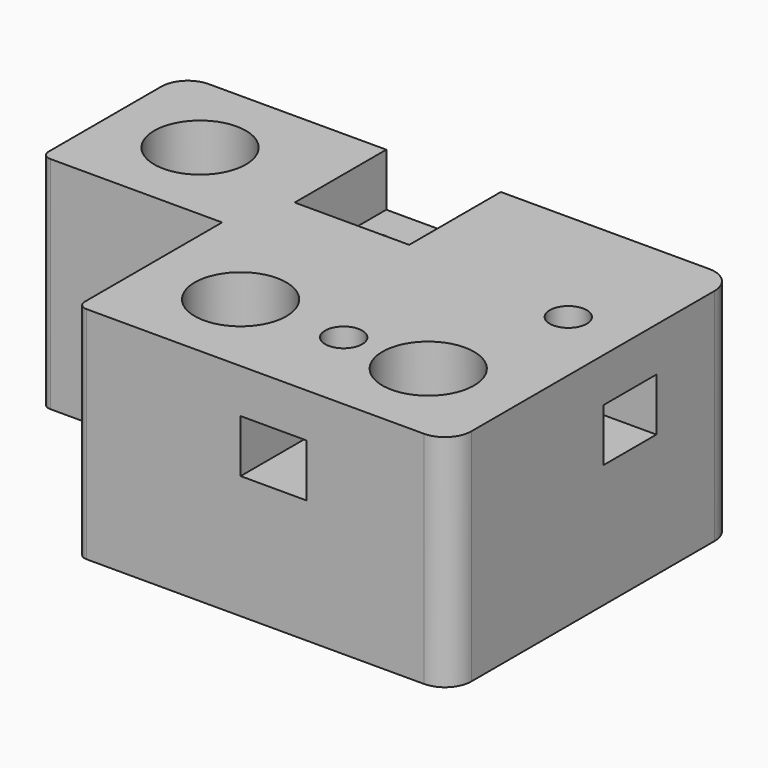
from build123d import *

# Parameters (mm, degrees)
EXTRUDE012_DEPTH                  = 20
BOX020_W                          = 15
BOX020_H                          = 7.5
BOX020_DEPTH                      = 6
CYLINDER010_R                     = 2.1
CYLINDER010_DEPTH                 = 5
CYLINDER009_R                     = 1.05
CYLINDER009_DEPTH                 = 7
BOX018_W                          = 13
BOX018_H                          = 13
BOX018_DEPTH                      = 6
CYLINDER008_R                     = 2.65
CYLINDER008_DEPTH                 = 5
CYLINDER007_R                     = 5.2
CYLINDER007_DEPTH                 = 20
BOX021_W                          = 20.5
BOX021_H                          = 20.5
BOX021_DEPTH                      = 25
BOX022_W                          = 7.5
BOX022_H                          = 13
BOX022_DEPTH                      = 6
BOX019_W                          = 40.5
BOX019_H                          = 62.8
BOX019_DEPTH                      = 25
FILLET004_1_R                     = 3
FILLET004_2_R                     = 1
PART_MIRRORING001_PLACEMENT_ANGLE = 90


with BuildPart() as obj1:
    # Sketch012 → Extrude012 (new body)
    with BuildSketch(Plane.YZ):
        with BuildLine():
            ThreePointArc((-3.606243, 3.606246), (0, -5.1), (3.606243, 3.606246))
            Line((2.112489, 5.1), (3.606243, 3.606246))
            Line((-2.112489, 5.1), (2.112489, 5.1))
            Line((-3.606243, 3.606246), (-2.112489, 5.1))
        make_face()
    extrude(amount=EXTRUDE012_DEPTH)


with BuildPart() as obj1_1:
    # Extrude012 placement: moved
    add(obj1.part.moved(Location((20.5, 41.65, 15))))


with BuildPart() as hueco_taladro005:
    # Box020 → Box020 (new body)
    with BuildSketch(Plane(origin=(0, 39, 14), x_dir=(1, 0, 0), z_dir=(0, 0, 1))):
        with Locations((7.5, 3.75)):
            Rectangle(BOX020_W, BOX020_H)
    extrude(amount=BOX020_DEPTH)


with BuildPart() as taladro013:
    # Cylinder010 → Cylinder010 (new body)
    with BuildSketch(Plane(origin=(10, 42.7, 20), x_dir=(1, 0, 0), z_dir=(0, 0, 1))):
        Circle(CYLINDER010_R)
    extrude(amount=CYLINDER010_DEPTH)


with BuildPart() as clone019:
    # Clone019 base: copy of taladro013
    add(taladro013.part)


with BuildPart() as clone019_1:
    # Clone019 placement: moved
    add(clone019.part.moved(Location((15.5, 13.1, 0))))


with BuildPart() as taladro_endstop001:
    # Cylinder009 → Cylinder009 (new body)
    with BuildSketch(Plane(origin=(35.5, 26.14, 12), x_dir=(1, 0, 0), z_dir=(0, 0, 1))):
        Circle(CYLINDER009_R)
    extrude(amount=CYLINDER009_DEPTH)


with BuildPart() as clone022:
    # Clone022 base: copy of taladro_endstop001
    add(taladro_endstop001.part)


with BuildPart() as clone022_1:
    # Clone022 placement: moved
    add(clone022.part.moved(Location((0, 7, 0))))


with BuildPart() as hueco_endstop001:
    # Box018 → Box018 (new body)
    with BuildSketch(Plane(origin=(27.5, 23.14, 19), x_dir=(1, 0, 0), z_dir=(0, 0, 1))):
        with Locations((6.5, 6.5)):
            Rectangle(BOX018_W, BOX018_H)
    extrude(amount=BOX018_DEPTH)


with BuildPart() as taladro012:
    # Cylinder008 → Cylinder008 (new body)
    with BuildSketch(Plane(origin=(30.5, 10, 0), x_dir=(1, 0, 0), z_dir=(0, 0, 1))):
        Circle(CYLINDER008_R)
    extrude(amount=CYLINDER008_DEPTH)


with BuildPart() as clone021:
    # Clone021 base: copy of taladro012
    add(taladro012.part)


with BuildPart() as clone021_1:
    # Clone021 placement: moved
    add(clone021.part.moved(Location((-20.5, 21, 0))))


with BuildPart() as clone017:
    # Clone017 base: copy of Clone021
    add(clone021_1.part)


with BuildPart() as clone017_1:
    # Clone017 placement: moved
    add(clone017.part.moved(Location((0, 21.3, 0))))


with BuildPart() as taladro011:
    # Cylinder007 → Cylinder007 (new body)
    with BuildSketch(Plane(origin=(30.5, 10, 5), x_dir=(1, 0, 0), z_dir=(0, 0, 1))):
        Circle(CYLINDER007_R)
    extrude(amount=CYLINDER007_DEPTH)


with BuildPart() as clone018:
    # Clone018 base: copy of taladro011
    add(taladro011.part)


with BuildPart() as clone018_1:
    # Clone018 placement: moved
    add(clone018.part.moved(Location((-20.5, 21, 0))))


with BuildPart() as clone020:
    # Clone020 base: copy of Clone018
    add(clone018_1.part)


with BuildPart() as clone020_1:
    # Clone020 placement: moved
    add(clone020.part.moved(Location((0, 21.3, 0))))


with BuildPart() as obj2:
    # Box021 → Box021 (new body)
    with BuildSketch(Plane.XY):
        with Locations((10.25, 10.25)):
            Rectangle(BOX021_W, BOX021_H)
    extrude(amount=BOX021_DEPTH)


with BuildPart() as huecos001:
    # Box022 → Box022 (new body)
    with BuildSketch(Plane(origin=(21.75, 49.8, 14), x_dir=(1, 0, 0), z_dir=(0, 0, 1))):
        with Locations((3.75, 6.5)):
            Rectangle(BOX022_W, BOX022_H)
    extrude(amount=BOX022_DEPTH)

    # Fusion017: union hueco_taladro005, Clone019, taladro013, Clone022, taladro_endstop001, hueco_endstop001, Clone017, Clone021, taladro012, Clone020, Clone018, taladro011, obj2
    add(hueco_taladro005.part)
    add(clone019_1.part)
    add(taladro013.part)
    add(clone022_1.part)
    add(taladro_endstop001.part)
    add(hueco_endstop001.part)
    add(clone017_1.part)
    add(clone021_1.part)
    add(taladro012.part)
    add(clone020_1.part)
    add(clone018_1.part)
    add(taladro011.part)
    add(obj2.part)


with BuildPart() as obj3:
    # Box019 → Box019 (new body)
    with BuildSketch(Plane.XY):
        with Locations((20.25, 31.4)):
            Rectangle(BOX019_W, BOX019_H)
    extrude(amount=BOX019_DEPTH)

    # Cut012: cut huecos001
    add(huecos001.part, mode=Mode.SUBTRACT)

    # Cut013: cut obj1
    add(obj1_1.part, mode=Mode.SUBTRACT)

    # Fillet004 1
    fillet004_1_edges = [obj3.edges().sort_by_distance(p)[0] for p in [
        (0, 62.8, 12.5),
        (40.5, 62.8, 12.5),
        (40.5, 0, 12.5),
    ]]
    fillet(fillet004_1_edges, radius=FILLET004_1_R)

    # Fillet004 2
    fillet004_2_edges = [obj3.edges().sort_by_distance(p)[0] for p in [
        (0, 20.5, 12.5),
        (20.5, 0, 12.5),
    ]]
    fillet(fillet004_2_edges, radius=FILLET004_2_R)


with BuildPart() as obj4:
    # Part__Mirroring001: instance of obj3
    add(obj3.part.mirror(Plane(origin=(0, 0, 0), x_dir=(1, 0, 0), z_dir=(0, 1, 0))))


with BuildPart() as obj4_1:
    # Part__Mirroring001 placement: moved
    add(obj4.part.moved(Location((0, 0, 610))).rotate(Axis((0, 0, 610), (0, 0, 1)), PART_MIRRORING001_PLACEMENT_ANGLE))


solid = obj4_1.part
